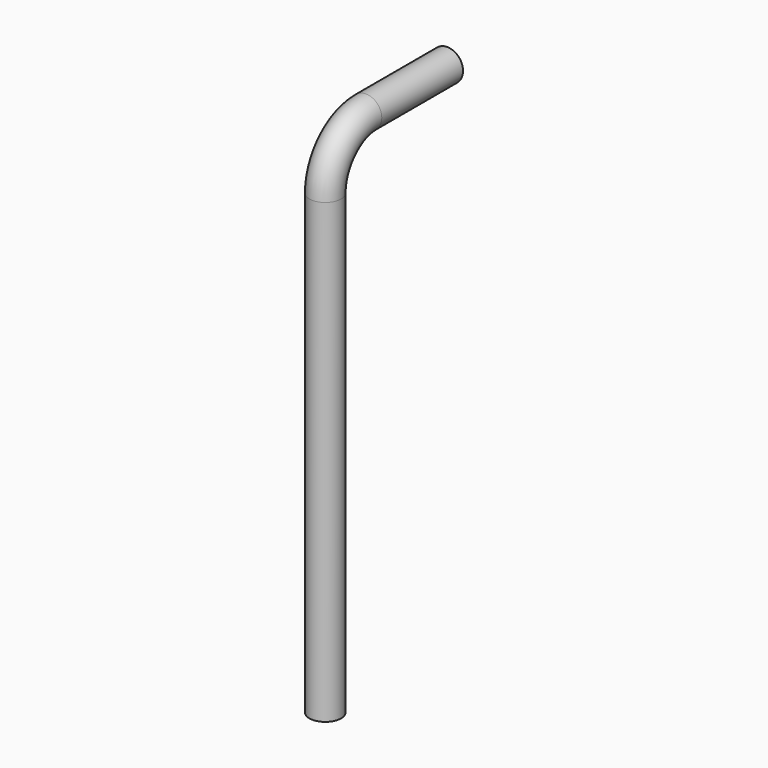
from build123d import *

# Parameters (mm, degrees)
F1_R = 15.875


with BuildPart() as f2:
    # F2: sweep along a path in F0
    with BuildLine(Plane.YZ) as f2_path:
        Line((152.4, 508), (50.8, 508))
        ThreePointArc((50.8, 508), (14.8789755157, 493.1210244843), (0, 457.2))
        Line((0, 457.2), (0, 0))
    # F1 (on Top) → F2 (sweep)
    with BuildSketch(Plane.XY):
        Circle(F1_R)
    sweep(path=f2_path.line)


solid = f2.part
